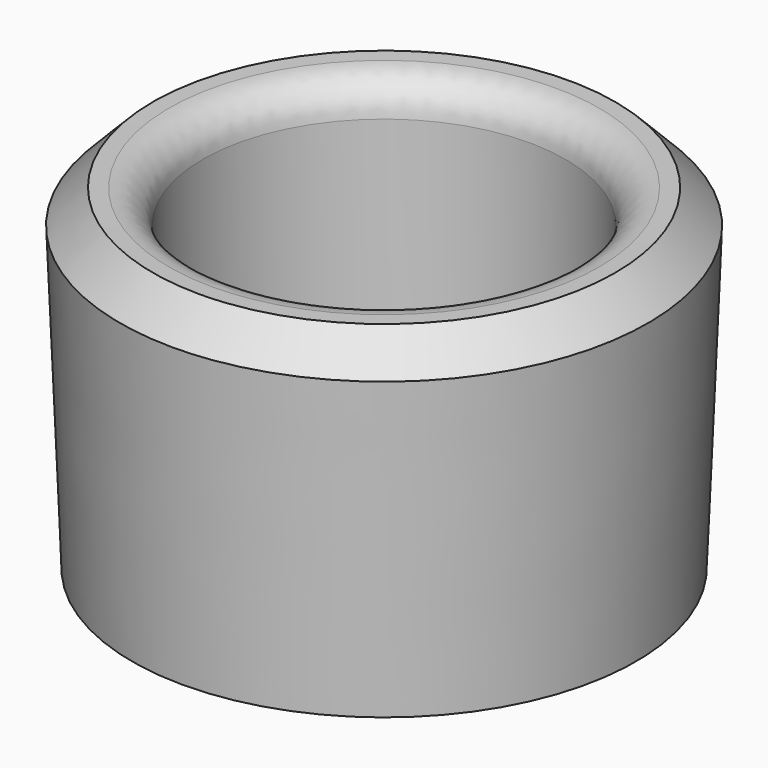
from build123d import *

# Parameters (mm, degrees)
F2_R    = 5.08
F3_SIZE = 5.08


with BuildPart() as f1:
    # F0 (on Right) → F1 (revolve)
    with BuildSketch(Plane.YZ):
        Polygon((-46.0525572707, -5.5384264588), (-46.0525572707, 41.3120244363), (-58.5525572707, 41.4615735412), (-56.5525572707, -8.5384264588), (-19.0525572707, -8.5384264588), (-19.0525572707, -5.5384264588), align=None)
    revolve(axis=Axis((0, -19.0525572707, -7.0384264588), (0, 0, -1)))

    # F2
    f2_edges = [f1.edges().sort_by_distance(p)[0] for p in [
        (0, 7.947443, 41.312024),
    ]]
    fillet(f2_edges, radius=F2_R)

    # F3
    f3_edges = [f1.edges().sort_by_distance(p)[0] for p in [
        (0, 20.447443, 41.461574),
    ]]
    chamfer(f3_edges, length=F3_SIZE)


solid = f1.part
